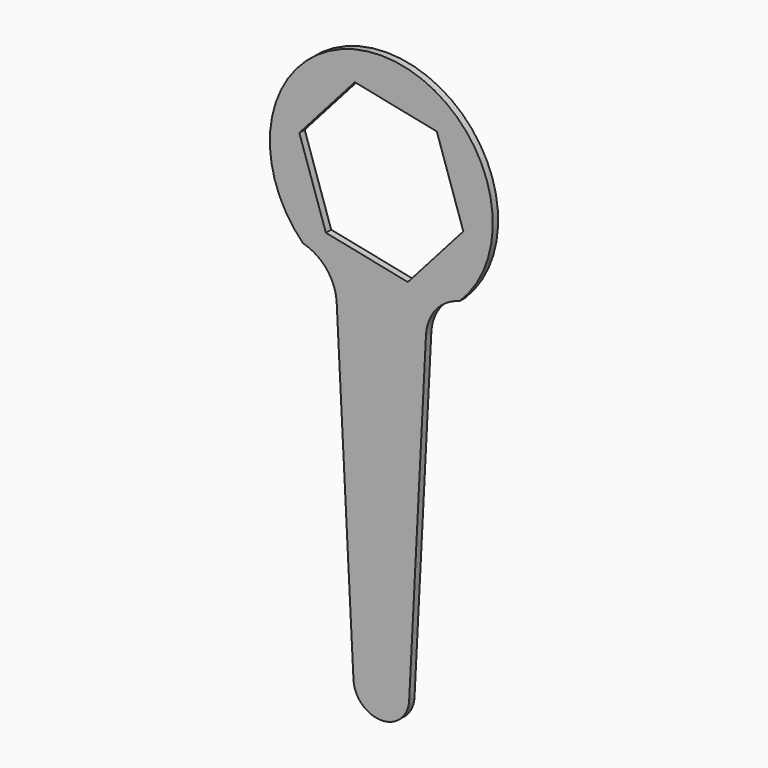
from build123d import *

# Parameters (mm, degrees)
F2_DEPTH = 3
F4_DEPTH = 25


with BuildPart() as f2:
    # F1 (on Front) → F2 (new body)
    with BuildSketch(Plane.XZ):
        with BuildLine():
            ThreePointArc((-35.099057, -35.609777), (-24.540831, -42.310868), (-20.026396, -53.972799))
            Line((-20.026396, -53.972799), (-12.483503, -200.642001))
            ThreePointArc((-12.483503, -200.642001), (0, -212.5), (12.483503, -200.642001))
            Line((12.483503, -200.642001), (20.026396, -53.972799))
            ThreePointArc((20.026396, -53.972799), (24.540831, -42.310868), (35.099057, -35.609777))
            ThreePointArc((35.099057, -35.609777), (0, 50), (-35.099057, -35.609777))
        make_face()
    extrude(amount=F2_DEPTH)

    # F3 (on face) → F4 (cut)
    with BuildSketch(Plane.XZ.offset(3)):
        Polygon((-24.877189, -28.09731), (11.89439, -35.592932), (36.771578, -7.495622), (24.877189, 28.09731), (-11.89439, 35.592932), (-36.771578, 7.495622), align=None)
    extrude(amount=-F4_DEPTH, mode=Mode.SUBTRACT)


solid = f2.part
